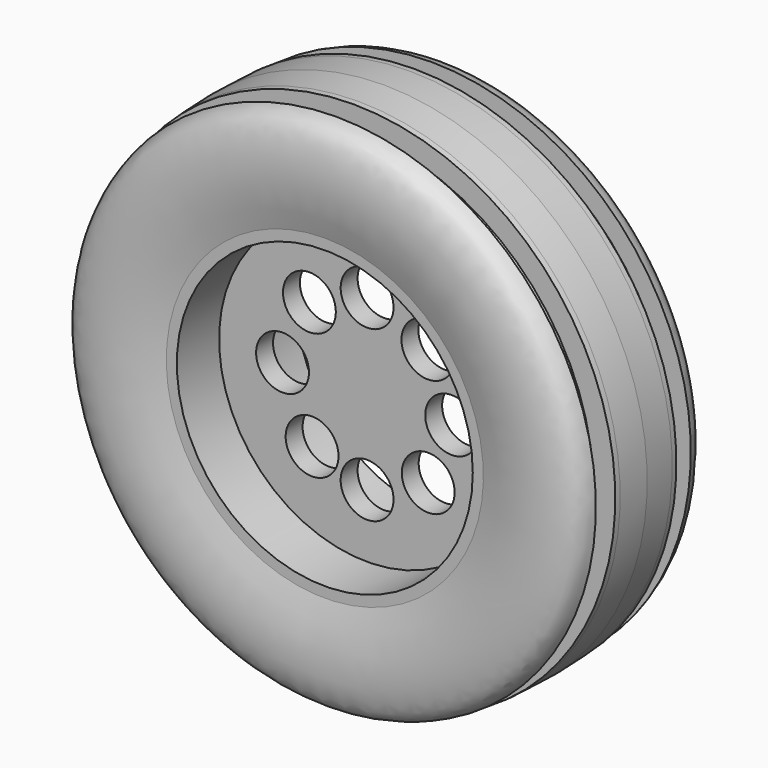
from build123d import *

# Parameters (mm, degrees)
F0_R     = 19.05
F0_R_2   = 17.78
F1_DEPTH = 8.89
F2_R     = 19.05
F2_R_2   = 3.175
F3_DEPTH = 2.54


with BuildPart() as f1:
    # F0 (on Front) → F1 (new body, symmetric)
    with BuildSketch(Plane.XZ):
        Circle(F0_R)
        Circle(F0_R_2, mode=Mode.SUBTRACT)
    extrude(amount=F1_DEPTH, both=True)

    # F2 (on Front) → F3 (join)
    with BuildSketch(Plane.XZ):
        Circle(F2_R)
        with Locations((-6.6079698966, -7.7175341817)):
            Circle(F2_R_2, mode=Mode.SUBTRACT)
        with Locations((0, -10.16)):
            Circle(F2_R_2, mode=Mode.SUBTRACT)
        with Locations((7.344118442, -7.0206498495)):
            Circle(F2_R_2, mode=Mode.SUBTRACT)
        with Locations((-10.16, 0)):
            Circle(F2_R_2, mode=Mode.SUBTRACT)
        with Locations((-6.9306228705, 7.4291363311)):
            Circle(F2_R_2, mode=Mode.SUBTRACT)
        with Locations((7.3032579686, 7.0631454073)):
            Circle(F2_R_2, mode=Mode.SUBTRACT)
        with Locations((10.16, 0)):
            Circle(F2_R_2, mode=Mode.SUBTRACT)
        with Locations((0, 10.16)):
            Circle(F2_R_2, mode=Mode.SUBTRACT)
    extrude(amount=F3_DEPTH)

    # F4 (on Right) → F5 (revolve)
    with BuildSketch(Plane.YZ):
        with BuildLine():
            Line((-8.89, 19.05), (8.89, 19.05))
            add(Edge.make_bspline(
                [(8.89, 19.05), (9.3713340969, 20.6183499433), (10.2554052593, 24.0989340461), (9.8811858293, 28.9024713894), (8.8295577156, 30.6525136314), (7.595453206, 31.0641886466), (7.1296267618, 31.1671363555)],
                knots=[0, 0, 0, 0, 0.2289755249, 0.4448002595, 0.5924628836, 0.6676601749, 0.6676601749, 0.6676601749, 0.6676601749], degree=3))
            Line((7.1296267618, 31.1671363555), (7.1296267618, 28.8509575848))
            Line((7.1296267618, 28.8509575848), (4.5896267618, 28.8509575848))
            Line((4.5896267618, 28.8509575848), (4.5896267618, 31.4635176745))
            Line((4.5896267618, 31.4635176745), (3.9059881692, 31.502850598))
            add(Edge.make_bspline(
                [(3.9059881692, 31.502850598), (2.6037174326, 31.5710260027), (1.2917363881, 31.603360188), (0, 31.634365768)],
                knots=[0.8214847357, 0.8214847357, 0.8214847357, 0.8214847357, 1, 1, 1, 1], degree=3))
            add(Edge.make_bspline(
                [(-3.9059881692, 31.502850598), (-2.6037174326, 31.5710260027), (-1.2917363881, 31.603360188), (0, 31.634365768)],
                knots=[0.8214847357, 0.8214847357, 0.8214847357, 0.8214847357, 1, 1, 1, 1], degree=3))
            add(Edge.make_bspline(
                [(-4.5896267618, 31.4635176745), (-4.3621529799, 31.4778533614), (-4.1342197, 31.490902409), (-3.9059881692, 31.502850598)],
                knots=[0.7901987589, 0.7901987589, 0.7901987589, 0.7901987589, 0.8214847357, 0.8214847357, 0.8214847357, 0.8214847357], degree=3))
            Line((-4.5896267618, 31.4635176745), (-4.5896267618, 28.8509575848))
            Line((-4.5896267618, 28.8509575848), (-7.1296267618, 28.8509575848))
            Line((-7.1296267618, 28.8509575848), (-7.1296267618, 31.1671363555))
            add(Edge.make_bspline(
                [(-8.89, 19.05), (-9.3713340969, 20.6183499433), (-10.2554052593, 24.0989340461), (-9.8811858293, 28.9024713894), (-8.8295577156, 30.6525136314), (-7.595453206, 31.0641886466), (-7.1296267618, 31.1671363555)],
                knots=[0, 0, 0, 0, 0.2289755249, 0.4448002595, 0.5924628836, 0.6676601749, 0.6676601749, 0.6676601749, 0.6676601749], degree=3))
        make_face()
        with BuildLine():
            Line((-8.89, 19.05), (8.89, 19.05))
            add(Edge.make_bspline(
                [(8.89, 19.05), (9.3713340969, 20.6183499433), (10.2554052593, 24.0989340461), (9.8811858293, 28.9024713894), (8.8295577156, 30.6525136314), (7.595453206, 31.0641886466), (7.1296267618, 31.1671363555)],
                knots=[0, 0, 0, 0, 0.2289755249, 0.4448002595, 0.5924628836, 0.6676601749, 0.6676601749, 0.6676601749, 0.6676601749], degree=3))
            Line((7.1296267618, 31.1671363555), (7.1296267618, 28.8509575848))
            Line((7.1296267618, 28.8509575848), (4.5896267618, 28.8509575848))
            Line((4.5896267618, 28.8509575848), (4.5896267618, 31.4635176745))
            Line((4.5896267618, 31.4635176745), (3.9059881692, 31.502850598))
            add(Edge.make_bspline(
                [(3.9059881692, 31.502850598), (2.6037174326, 31.5710260027), (1.2917363881, 31.603360188), (0, 31.634365768)],
                knots=[0.8214847357, 0.8214847357, 0.8214847357, 0.8214847357, 1, 1, 1, 1], degree=3))
            add(Edge.make_bspline(
                [(-3.9059881692, 31.502850598), (-2.6037174326, 31.5710260027), (-1.2917363881, 31.603360188), (0, 31.634365768)],
                knots=[0.8214847357, 0.8214847357, 0.8214847357, 0.8214847357, 1, 1, 1, 1], degree=3))
            add(Edge.make_bspline(
                [(-4.5896267618, 31.4635176745), (-4.3621529799, 31.4778533614), (-4.1342197, 31.490902409), (-3.9059881692, 31.502850598)],
                knots=[0.7901987589, 0.7901987589, 0.7901987589, 0.7901987589, 0.8214847357, 0.8214847357, 0.8214847357, 0.8214847357], degree=3))
            Line((-4.5896267618, 31.4635176745), (-4.5896267618, 28.8509575848))
            Line((-4.5896267618, 28.8509575848), (-7.1296267618, 28.8509575848))
            Line((-7.1296267618, 28.8509575848), (-7.1296267618, 31.1671363555))
            add(Edge.make_bspline(
                [(-8.89, 19.05), (-9.3713340969, 20.6183499433), (-10.2554052593, 24.0989340461), (-9.8811858293, 28.9024713894), (-8.8295577156, 30.6525136314), (-7.595453206, 31.0641886466), (-7.1296267618, 31.1671363555)],
                knots=[0, 0, 0, 0, 0.2289755249, 0.4448002595, 0.5924628836, 0.6676601749, 0.6676601749, 0.6676601749, 0.6676601749], degree=3))
        make_face()
    revolve(axis=Axis((0, 0, 0), (0, -1, 0)))


solid = f1.part
